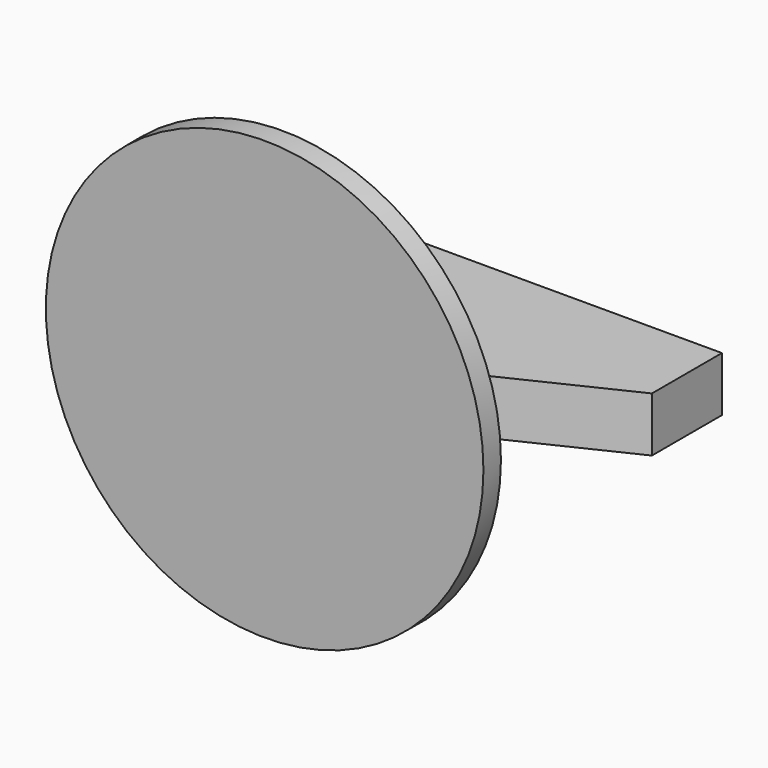
from build123d import *

# Parameters (mm, degrees)
F0_R     = 100
F1_DEPTH = 5
F3_DEPTH = 12.5


with BuildPart() as f1:
    # F0 (on Front) → F1 (new body, symmetric)
    with BuildSketch(Plane.XZ):
        Circle(F0_R)
    extrude(amount=F1_DEPTH, both=True)

    # F2 (on Top) → F3 (join, symmetric)
    with BuildSketch(Plane.XY):
        Polygon((-100, 0), (0, 0), (125, 60), (125, 100), (-100, 100), align=None)
    extrude(amount=F3_DEPTH, both=True)


solid = f1.part
